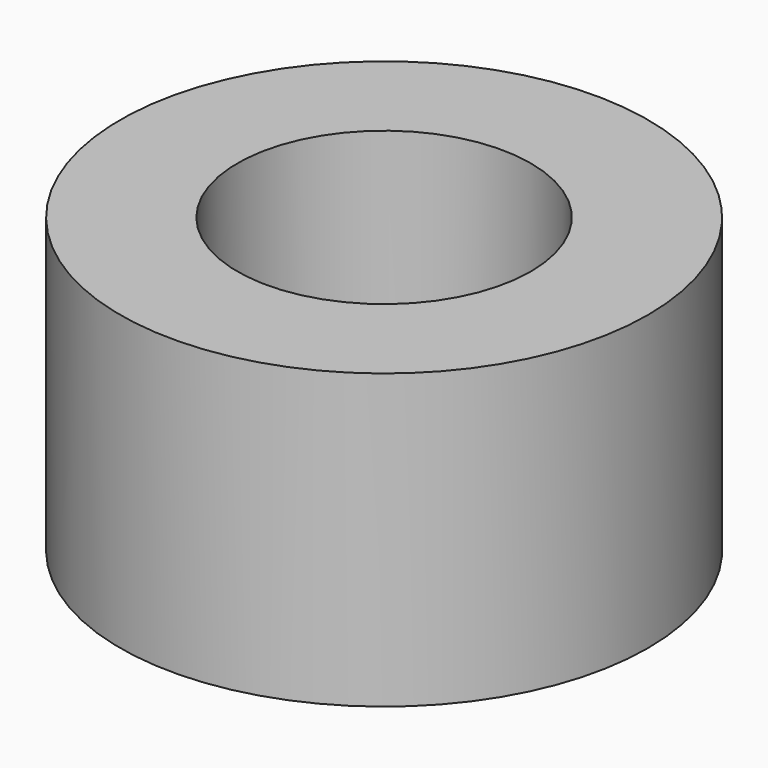
from build123d import *

# Parameters (mm, degrees)
CYLINDER001_R     = 2.5
CYLINDER001_DEPTH = 5
CYLINDER003_R     = 4.5
CYLINDER003_DEPTH = 5


with BuildPart() as interior:
    # Cylinder001 → Cylinder001 (new body)
    with BuildSketch(Plane.XY):
        Circle(CYLINDER001_R)
    extrude(amount=CYLINDER001_DEPTH)


with BuildPart() as interior001:
    # Cylinder003 → Cylinder003 (new body)
    with BuildSketch(Plane.XY):
        Circle(CYLINDER003_R)
    extrude(amount=CYLINDER003_DEPTH)

    # Cut001: cut Interior
    add(interior.part, mode=Mode.SUBTRACT)


solid = interior001.part
